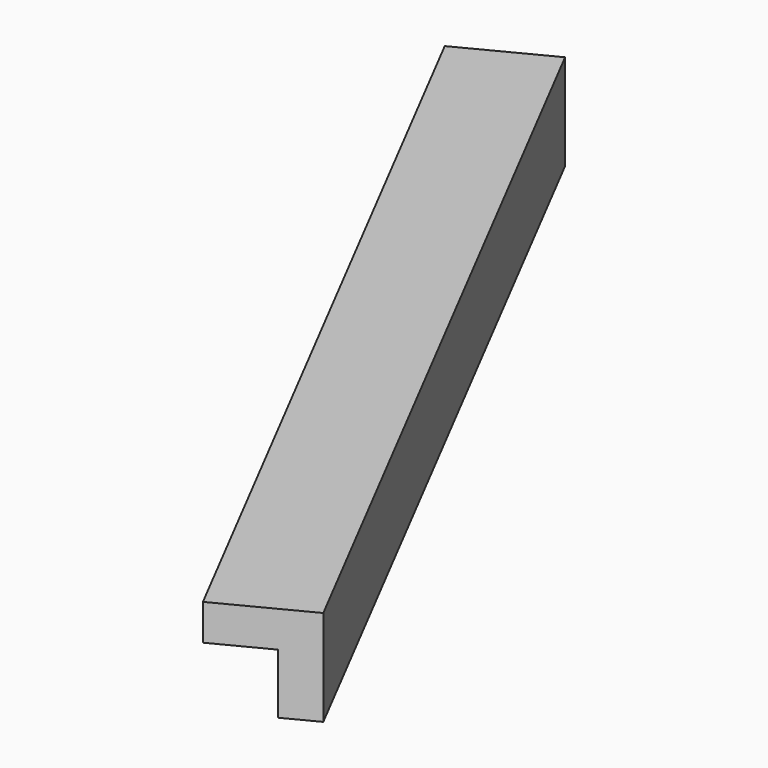
from build123d import *

# Parameters (mm, degrees)
BOX145_W               = 0.8
BOX145_H               = 8
BOX145_DEPTH           = 0.8
BOX146_W               = 0.8
BOX146_H               = 8
BOX146_DEPTH           = 0.8
CUT076_PLACEMENT_ANGLE = 27.3


with BuildPart() as cubo145:
    # Box145 → Box145 (new body)
    with BuildSketch(Plane.XY):
        with Locations((0.4, 4)):
            Rectangle(BOX145_W, BOX145_H)
    extrude(amount=BOX145_DEPTH)


with BuildPart() as obj1:
    # Box146 → Box146 (new body)
    with BuildSketch(Plane(origin=(0.3, 0, 0.3), x_dir=(1, 0, 0), z_dir=(0, 0, 1))):
        with Locations((0.4, 4)):
            Rectangle(BOX146_W, BOX146_H)
    extrude(amount=BOX146_DEPTH)

    # Cut076: cut Cubo145
    add(cubo145.part, mode=Mode.SUBTRACT)


with BuildPart() as obj1_1:
    # Cut076 placement: moved
    add(obj1.part.moved(Location((-104.6, 201, -1.45))).rotate(Axis((-104.6, 201, -1.45), (0, 0, 1)), CUT076_PLACEMENT_ANGLE))


solid = obj1_1.part
